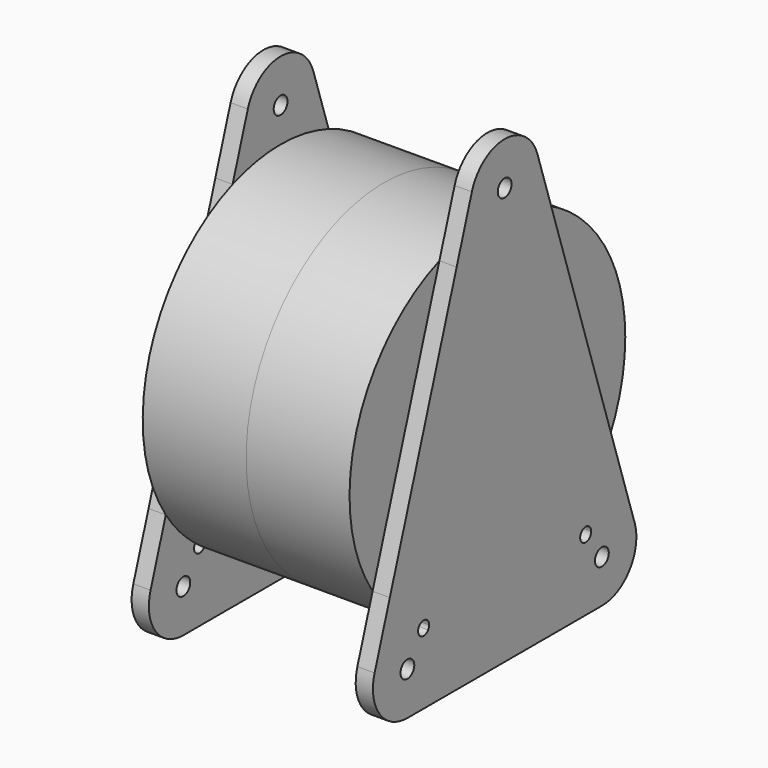
from build123d import *

# Parameters (mm, degrees)
F0_R     = 100
F0_R_2   = 16
F1_DEPTH = 60
F2_R     = 5
F2_R_2   = 16
F3_DEPTH = 10


with BuildPart() as f1:
    # F0 (on Right) → F1 (new body)
    with BuildSketch(Plane.YZ):
        Circle(F0_R)
        Circle(F0_R_2, mode=Mode.SUBTRACT)
    extrude(amount=F1_DEPTH)

    # F2 (on face) → F3 (join)
    with BuildSketch(Plane.YZ.offset(60)):
        with BuildLine():
            Line((-83.269003, -55.37394), (-94.310643, -89.356614))
            ThreePointArc((-94.310643, -89.356614), (-90.759655, -111.776671), (-70.53423, -122.082039))
            Line((-70.53423, -122.082039), (70.53423, -122.082039))
            ThreePointArc((70.53423, -122.082039), (90.759655, -111.776671), (94.310643, -89.356614))
            Line((94.310643, -89.356614), (83.269003, -55.37394))
            ThreePointArc((83.269003, -55.37394), (73.531721, -67.772311), (61.966923, -78.486307))
            ThreePointArc((61.966923, -78.486307), (62.5702, -79.627649), (62.778525, -80.901699))
            ThreePointArc((62.778525, -80.901699), (59.976487, -84.718097), (55.496082, -83.187649))
            ThreePointArc((55.496082, -83.187649), (0, -100), (-55.496082, -83.187649))
            ThreePointArc((-55.496082, -83.187649), (-61.129666, -84.137767), (-61.966923, -78.486307))
            ThreePointArc((-61.966923, -78.486307), (-73.531721, -67.772311), (-83.269003, -55.37394))
        make_face()
        with Locations((-70.53423, -97.082039)):
            Circle(F2_R, mode=Mode.SUBTRACT)
        with Locations((70.53423, -97.082039)):
            Circle(F2_R, mode=Mode.SUBTRACT)
        with BuildLine():
            Line((-34.818053, 93.74275), (-83.269003, -55.37394))
            ThreePointArc((-83.269003, -55.37394), (-73.531721, -67.772311), (-61.966923, -78.486307))
            ThreePointArc((-61.966923, -78.486307), (-57.504475, -77.110025), (-54.778525, -80.901699))
            ThreePointArc((-54.778525, -80.901699), (-54.962128, -82.099661), (-55.496082, -83.187649))
            ThreePointArc((-55.496082, -83.187649), (0, -100), (55.496082, -83.187649))
            ThreePointArc((55.496082, -83.187649), (56.427384, -77.665631), (61.966923, -78.486307))
            ThreePointArc((61.966923, -78.486307), (73.531721, -67.772311), (83.269003, -55.37394))
            Line((83.269003, -55.37394), (34.818053, 93.74275))
            ThreePointArc((34.818053, 93.74275), (0, 100), (-34.818053, 93.74275))
        make_face()
        Circle(F2_R_2, mode=Mode.SUBTRACT)
        with BuildLine():
            Line((-23.776413, 127.725425), (-34.818053, 93.74275))
            ThreePointArc((-34.818053, 93.74275), (0, 100), (34.818053, 93.74275))
            Line((34.818053, 93.74275), (23.776413, 127.725425))
            ThreePointArc((23.776413, 127.725425), (0, 145), (-23.776413, 127.725425))
        make_face()
        with Locations((0, 120)):
            Circle(F2_R, mode=Mode.SUBTRACT)
        Circle(F2_R_2)
    extrude(amount=F3_DEPTH)

    # F4: F1 across face


with BuildPart() as f1_1:
    add(f1.part)
    add(f1.part.mirror(Plane(origin=(0, 0, 0), x_dir=(0, 1, 0), z_dir=(-1, 0, 0))))


solid = f1_1.part
